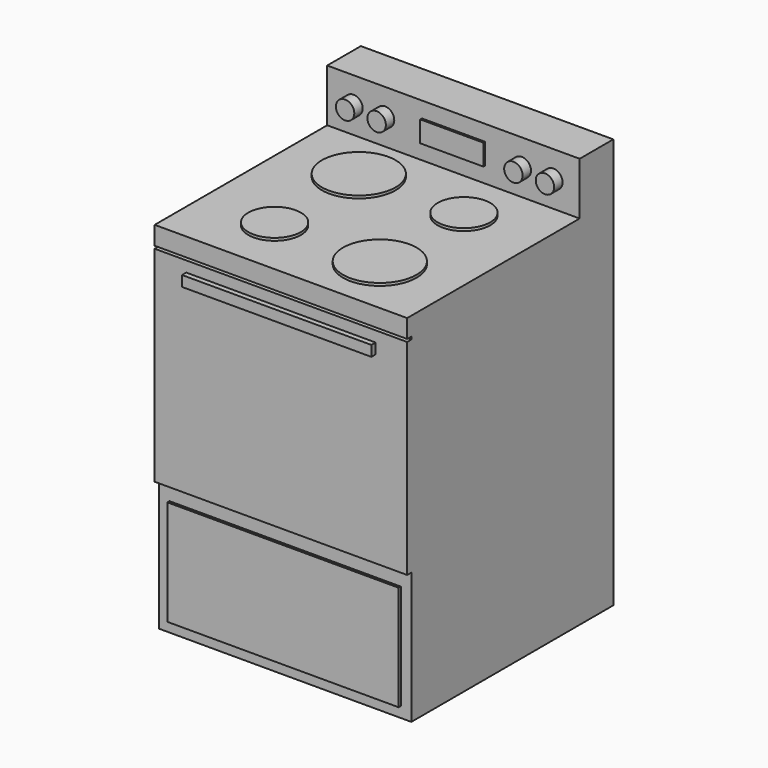
from build123d import *

# Parameters (mm, degrees)
F0_W      = 609.6
F0_H      = 863.6
F1_DEPTH  = 609.6
F2_W      = 609.6
F2_H      = 101.6
F3_DEPTH  = 127
F4_R      = 88.9
F4_R_2    = 63.5
F5_DEPTH  = 6.35
F6_W      = 558.8
F6_H      = 254
F7_DEPTH  = 6.35
F8_W      = 609.6
F8_H      = 495.3
F8_H_2    = 44.45
F9_DEPTH  = 12.7
F10_W     = 457.2
F10_H     = 25.4
F11_DEPTH = 12.7
F12_W     = 152.4
F12_H     = 50.8
F13_DEPTH = 5.08
F14_R     = 22.225
F15_DEPTH = 25.4


with BuildPart() as f1:
    # F0 (on Front) → F1 (new body)
    with BuildSketch(Plane.XZ):
        with Locations((-87.74905, 10.130912)):
            Rectangle(F0_W, F0_H)
    extrude(amount=F1_DEPTH)

    # F2 (on face) → F3 (join)
    with BuildSketch(Plane.XY.offset(441.930912)):
        with Locations((-87.74905, -50.8)):
            Rectangle(F2_W, F2_H)
    extrude(amount=F3_DEPTH)

    # F4 (on face) → F5 (join)
    with BuildSketch(Plane.XY.offset(441.930912)):
        with Locations((-214.74905, -228.6)):
            Circle(F4_R)
        with Locations((-214.74905, -482.6)):
            Circle(F4_R_2)
        with Locations((39.25095, -482.6)):
            Circle(F4_R)
        with Locations((39.25095, -228.6)):
            Circle(F4_R_2)
    extrude(amount=F5_DEPTH)

    # F6 (on face) → F7 (join)
    with BuildSketch(Plane.XZ.offset(609.6)):
        with Locations((-87.74905, -269.269088)):
            Rectangle(F6_W, F6_H)
    extrude(amount=F7_DEPTH)

    # F8 (on face) → F9 (join)
    with BuildSketch(Plane.XZ.offset(609.6)):
        with Locations((-87.74905, 143.480912)):
            Rectangle(F8_W, F8_H)
        with Locations((-87.74905, 419.705912)):
            Rectangle(F8_W, F8_H_2)
    extrude(amount=F9_DEPTH)

    # F10 (on face) → F11 (join)
    with BuildSketch(Plane.XZ.offset(622.3)):
        with Locations((-87.74905, 352.542192)):
            Rectangle(F10_W, F10_H)
    extrude(amount=F11_DEPTH)

    # F12 (on face) → F13 (join)
    with BuildSketch(Plane.XZ.offset(101.6)):
        with Locations((-87.74905, 505.430912)):
            Rectangle(F12_W, F12_H)
    extrude(amount=F13_DEPTH)

    # F14 (on face) → F15 (join)
    with BuildSketch(Plane.XZ.offset(101.6)):
        with Locations((-329.04905, 505.430912)):
            Circle(F14_R)
        with Locations((-252.84905, 505.430912)):
            Circle(F14_R)
        with Locations((77.35095, 505.430912)):
            Circle(F14_R)
        with Locations((153.55095, 505.430912)):
            Circle(F14_R)
    extrude(amount=F15_DEPTH)


solid = f1.part
